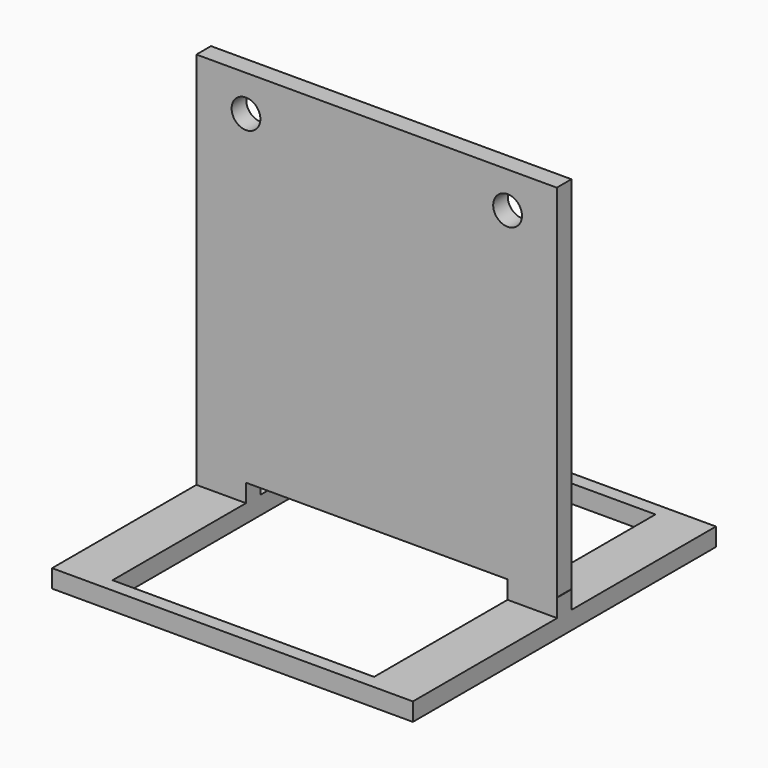
from build123d import *

# Parameters (mm, degrees)
F0_W     = 40
F0_H     = 42
F0_W_2   = 29
F0_H_2   = 39
F1_DEPTH = 2
F2_W     = 5.5
F2_H     = 2
F3_DEPTH = 2
F4_W     = 5.5
F4_H     = 2
F5_DEPTH = 40
F6_R     = 1.594694
F7_DEPTH = 3


with BuildPart() as f1:
    # F0 (on Top) → F1 (new body)
    with BuildSketch(Plane.XY):
        Rectangle(F0_W, F0_H)
        Rectangle(F0_W_2, F0_H_2, mode=Mode.SUBTRACT)
    extrude(amount=F1_DEPTH)

    # F2 (on face) → F3 (join)
    with BuildSketch(Plane.XY.offset(2)):
        with Locations((-17.25, 0)):
            Rectangle(F2_W, F2_H)
        with Locations((17.25, 0)):
            Rectangle(F2_W, F2_H)
    extrude(amount=F3_DEPTH)

    # F4 (on face) → F5 (join)
    with BuildSketch(Plane.XY.offset(4)):
        Polygon((-14.5, 1), (-14.5, -1), (19.954836, -1), (19.954836, 1.025821), (-20, 1.025821), (-20, 1), align=None)
        with Locations((-17.25, 0)):
            Rectangle(F4_W, F4_H)
    extrude(amount=F5_DEPTH)

    # F6 (on face) → F7 (cut)
    with BuildSketch(Plane.XZ.offset(1)):
        with Locations((-14.5, 40)):
            Circle(F6_R)
        with Locations((14.5, 40)):
            Circle(F6_R)
    extrude(amount=-F7_DEPTH, mode=Mode.SUBTRACT)


solid = f1.part
